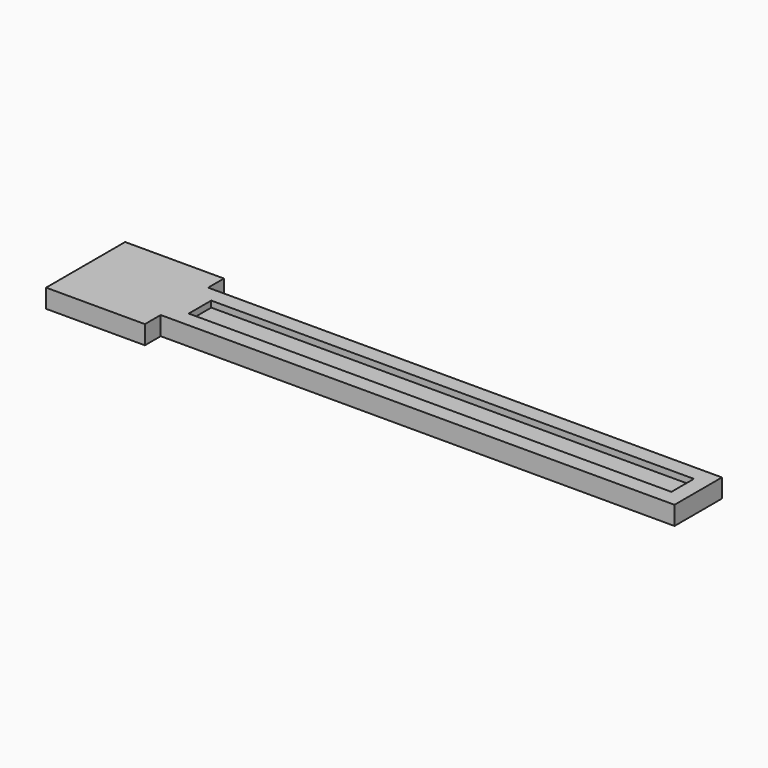
from build123d import *

# Parameters (mm, degrees)
F0_W     = 82.55
F0_H     = 9.525
F1_DEPTH = 3
F2_W     = 77.55
F2_H     = 4.525
F3_DEPTH = 1


with BuildPart() as f1:
    # F0 (on Top) → F1 (new body)
    with BuildSketch(Plane.XY):
        Polygon((-41.275, -4.7625), (-41.275, 4.7625), (-41.275, 7.9375), (-57.15, 7.9375), (-57.15, -7.9375), (-41.275, -7.9375), align=None)
        Rectangle(F0_W, F0_H)
    extrude(amount=F1_DEPTH)

    # F2 (on face) → F3 (cut)
    with BuildSketch(Plane.XY.offset(3)):
        Rectangle(F2_W, F2_H)
    extrude(amount=-F3_DEPTH, mode=Mode.SUBTRACT)


solid = f1.part
